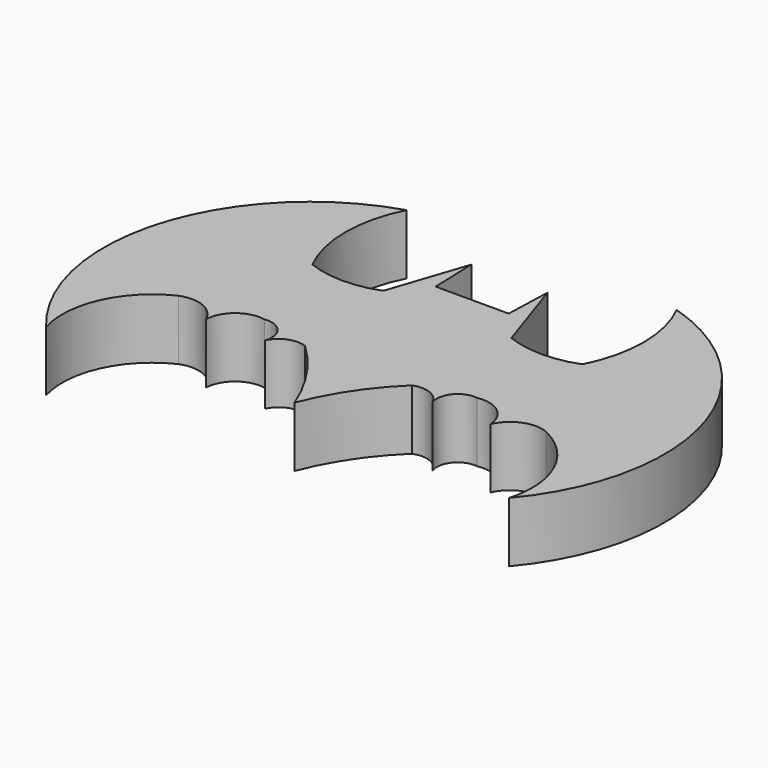
from build123d import *

# Parameters (mm, degrees)
F1_DEPTH = 12.7


with BuildPart() as f1:
    # F0 (on Top) → F1 (new body)
    with BuildSketch(Plane.XY):
        with BuildLine():
            Line((7.714299, 0), (0, 0))
            Line((0, 0), (-7.714299, 0))
            Line((-7.714299, 0), (-8.022307, 9.800587))
            Line((-8.022307, 9.800587), (-13.498154, -6.533614))
            ThreePointArc((-13.498154, -6.533614), (-20.995744, -7.940171), (-28.493334, -6.533614))
            ThreePointArc((-28.493334, -6.533614), (-31.465941, 5.890964), (-28.493334, 18.315542))
            ThreePointArc((-28.493334, 18.315542), (-57.349967, -11.034002), (-48.843939, -51.30494))
            ThreePointArc((-48.843939, -51.30494), (-47.885852, -38.32362), (-38.775746, -29.026385))
            ThreePointArc((-38.775746, -29.026385), (-33.628454, -29.072653), (-29.987374, -32.711237))
            ThreePointArc((-29.987374, -32.711237), (-27.56038, -27.988323), (-22.399301, -26.739529))
            ThreePointArc((-22.399301, -26.739529), (-18.405939, -28.296448), (-17.654907, -32.516268))
            ThreePointArc((-17.654907, -32.516268), (-14.956693, -29.974504), (-11.249818, -29.972308))
            ThreePointArc((-11.249818, -29.972308), (-4.691706, -37.79257), (0, -46.85641))
            ThreePointArc((0, -46.85641), (4.691706, -37.79257), (11.249818, -29.972308))
            ThreePointArc((11.249818, -29.972308), (14.956693, -29.974504), (17.654907, -32.516268))
            ThreePointArc((17.654907, -32.516268), (18.405939, -28.296448), (22.399301, -26.739529))
            ThreePointArc((22.399301, -26.739529), (27.56038, -27.988323), (29.987374, -32.711237))
            ThreePointArc((29.987374, -32.711237), (33.628454, -29.072653), (38.775746, -29.026385))
            ThreePointArc((38.775746, -29.026385), (47.885852, -38.32362), (48.843939, -51.30494))
            ThreePointArc((48.843939, -51.30494), (57.349967, -11.034002), (28.493334, 18.315542))
            ThreePointArc((28.493334, 18.315542), (31.465941, 5.890964), (28.493334, -6.533614))
            ThreePointArc((28.493334, -6.533614), (20.995744, -7.940171), (13.498154, -6.533614))
            Line((13.498154, -6.533614), (8.022307, 9.800587))
            Line((8.022307, 9.800587), (7.714299, 0))
        make_face()
    extrude(amount=F1_DEPTH)


solid = f1.part
